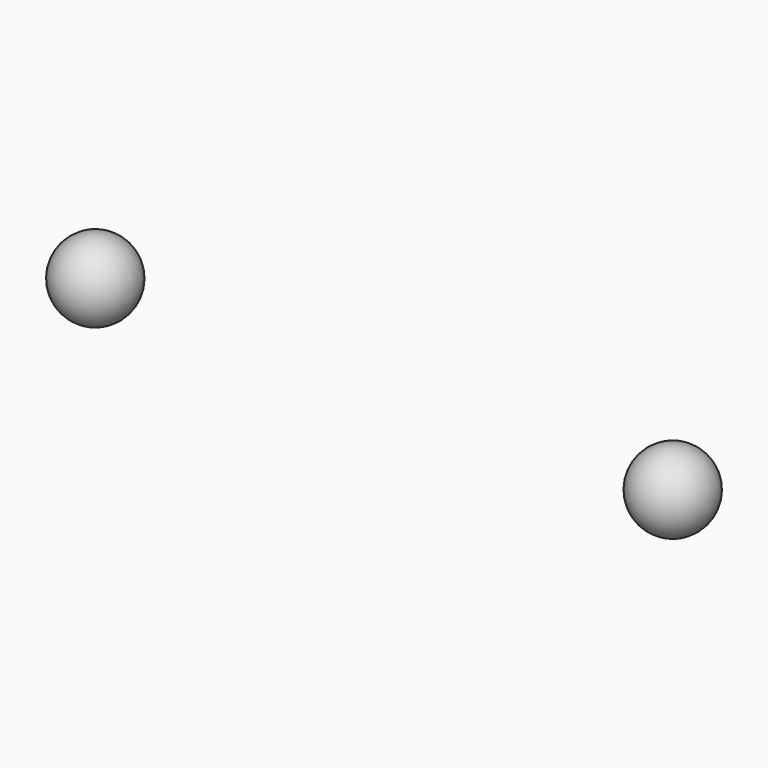
from build123d import *


with BuildPart() as f1:
    # F0 (on Front) → F1 (revolve)
    with BuildSketch(Plane.XZ):
        with BuildLine():
            ThreePointArc((-30.417854, 38.754028), (-29.417854, 39.754028), (-30.417854, 40.754028))
            Line((-30.417854, 40.754028), (-30.417854, 38.754028))
        make_face()
    revolve(axis=Axis((-30.417854, 0, 39.754028), (0, 0, -1)))


with BuildPart() as f2:
    # F0 (on Front) → F2 (revolve)
    with BuildSketch(Plane.XZ):
        with BuildLine():
            ThreePointArc((-15.417854, 38.79822), (-14.417854, 39.79822), (-15.417854, 40.79822))
            Line((-15.417854, 40.79822), (-15.417854, 38.79822))
        make_face()
    revolve(axis=Axis((-15.417854, 0, 39.79822), (0, 0, -1)))


solid = Compound([f1.part, f2.part])
